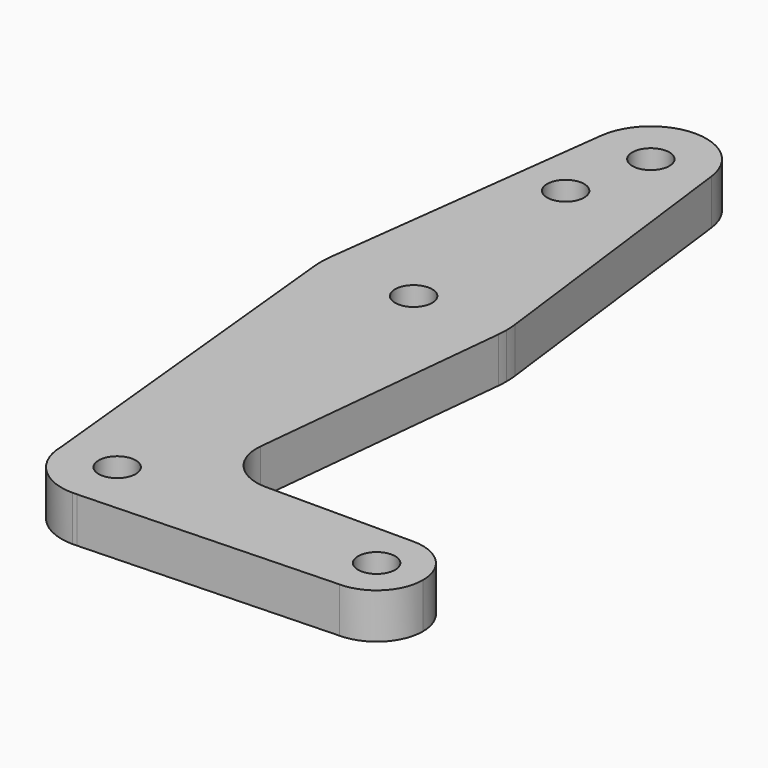
from build123d import *

# Parameters (mm, degrees)
F0_R     = 1.25
F1_DEPTH = 3.048


with BuildPart() as f1:
    # F0 (on Top) → F1 (new body)
    with BuildSketch(Plane.XY):
        with BuildLine():
            ThreePointArc((0.267516, -3.740446), (2.744602, -2.555319), (3.75, 0))
            ThreePointArc((3.75, 0), (0, 3.75), (-3.75, 0))
            ThreePointArc((-3.75, 0), (-2.65165, -2.65165), (0, -3.75))
            Line((0, -3.75), (0.267516, -3.740446))
        make_face()
        Circle(F0_R, mode=Mode.SUBTRACT)
        with BuildLine():
            ThreePointArc((-3.75, 0), (0, 3.75), (3.75, 0))
            ThreePointArc((3.75, 0), (2.744602, -2.555319), (0.267516, -3.740446))
            Line((0.267516, -3.740446), (17.5, -3.125))
            ThreePointArc((17.5, -3.125), (14.375, 0), (17.5, 3.125))
            Line((17.5, 3.125), (7.529511, 3.125))
            ThreePointArc((7.529511, 3.125), (5.207436, 4.156223), (4.415442, 6.57039))
            Line((4.415442, 6.57039), (6.21819, 24.370229))
            ThreePointArc((6.21819, 24.370229), (0, 18.75), (-6.21819, 24.370229))
            Line((-6.21819, 24.370229), (-3.75, 0))
        make_face()
        with BuildLine():
            ThreePointArc((0, -3.75), (0.133843, -3.747611), (0.267516, -3.740446))
            Line((0.267516, -3.740446), (0, -3.75))
        make_face()
        with BuildLine():
            ThreePointArc((-6.20098, 25.78125), (-6.249535, 25.076227), (-6.21819, 24.370229))
            ThreePointArc((-6.21819, 24.370229), (0, 18.75), (6.21819, 24.370229))
            ThreePointArc((6.21819, 24.370229), (6.242042, 24.684713), (6.25, 25))
            ThreePointArc((6.25, 25), (6.237733, 25.391393), (6.20098, 25.78125))
            ThreePointArc((6.20098, 25.78125), (0, 31.25), (-6.20098, 25.78125))
        make_face()
        with Locations((0, 25)):
            Circle(F0_R, mode=Mode.SUBTRACT)
        with BuildLine():
            ThreePointArc((17.5, 3.125), (14.375, 0), (17.5, -3.125))
            ThreePointArc((17.5, -3.125), (19.709709, -2.209709), (20.625, 0))
            ThreePointArc((20.625, 0), (19.709709, 2.209709), (17.5, 3.125))
        make_face()
        with Locations((17.5, 0)):
            Circle(F0_R, mode=Mode.SUBTRACT)
        with BuildLine():
            Line((-3.720588, 45.46875), (-6.20098, 25.78125))
            ThreePointArc((-6.20098, 25.78125), (0, 31.25), (6.20098, 25.78125))
            Line((6.20098, 25.78125), (3.720588, 45.46875))
            ThreePointArc((3.720588, 45.46875), (3.74264, 45.234836), (3.75, 45))
            ThreePointArc((3.75, 45), (-0.234836, 41.25736), (-3.720588, 45.46875))
        make_face()
        with Locations((-1.25, 39.38)):
            Circle(F0_R, mode=Mode.SUBTRACT)
        with BuildLine():
            ThreePointArc((3.720588, 45.46875), (0, 48.75), (-3.720588, 45.46875))
            ThreePointArc((-3.720588, 45.46875), (-0.234836, 41.25736), (3.75, 45))
            ThreePointArc((3.75, 45), (3.74264, 45.234836), (3.720588, 45.46875))
        make_face()
        with Locations((0, 45)):
            Circle(F0_R, mode=Mode.SUBTRACT)
    extrude(amount=F1_DEPTH)


solid = f1.part
